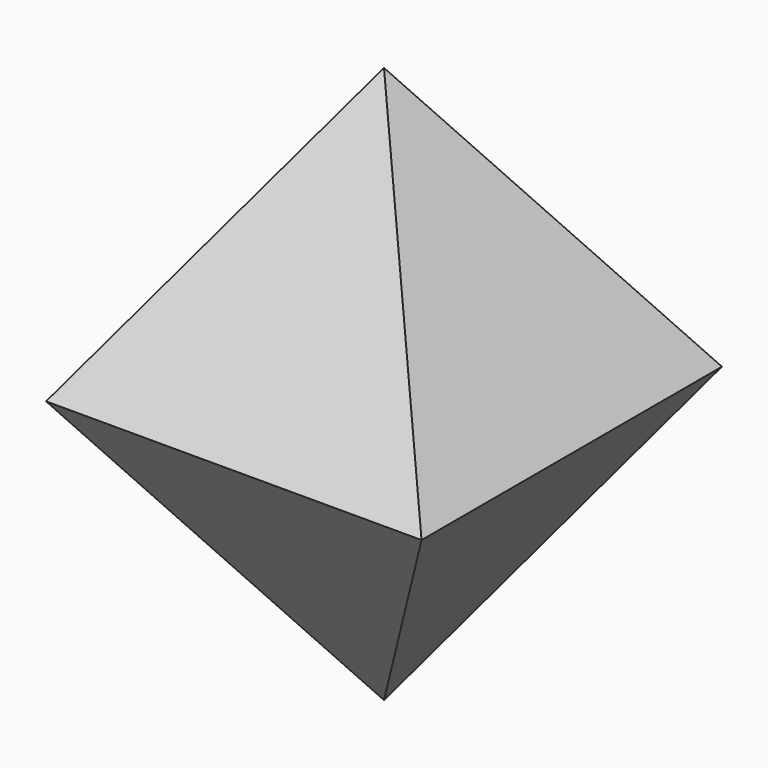
from build123d import *

# Parameters (mm, degrees)
F0_W     = 68.58
F0_H     = 68.58
F1_DEPTH = 50.8
F1_TAPER = 34
F2_SCALE = 0.74


with BuildPart() as f1:
    # F0 (on Top) → F1 (new body)
    with BuildSketch(Plane.XY):
        Rectangle(F0_W, F0_H)
    extrude(amount=F1_DEPTH, taper=F1_TAPER)


with BuildPart() as f1_1:
    # F2: moved
    add(f1.part.scale(F2_SCALE))

    # F3: F1 across plane


with BuildPart() as f1_2:
    add(f1_1.part)
    add(f1_1.part.mirror(Plane.XY))


solid = f1_2.part
